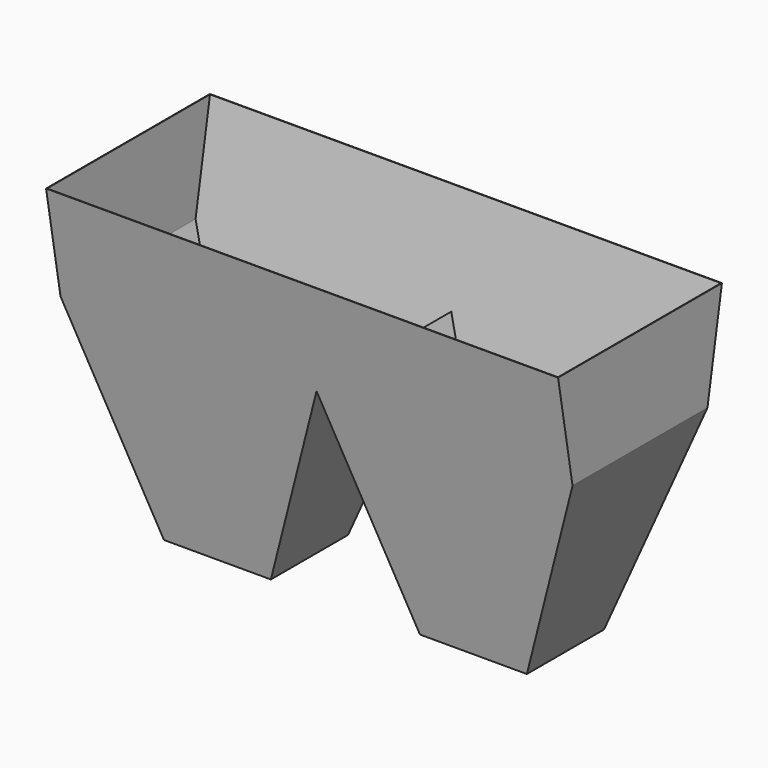
from build123d import *

# Parameters (mm, degrees)
F0_W     = 2500
F0_H     = 1000
F1_DEPTH = 1500
F3_DEPTH = 1000.001
F5_DEPTH = 2500.001
F6_T     = -2.5


with BuildPart() as f1:
    # F0 (on Top) → F1 (new body)
    with BuildSketch(Plane.XY):
        Rectangle(F0_W, F0_H)
    extrude(amount=F1_DEPTH)

    # F2 (on face) → F3 (cut, through all)
    with BuildSketch(Plane.XZ.offset(500)):
        Polygon((-886.0297657338, 0), (-1250, 1000), (-1250, 0), align=None)
        Polygon((0, 1000), (-363.9702342662, 0), (363.9702342662, 0), align=None)
        Polygon((1250, 0), (1250, 1000), (886.0297657338, 0), align=None)
    extrude(amount=-F3_DEPTH, mode=Mode.SUBTRACT)

    # F4 (on face) → F5 (cut, through all)
    with BuildSketch(Plane(origin=(-1250, 0, 0), x_dir=(0, -1, 0), z_dir=(-1, 0, 0))):
        Polygon((-235.5095289373, 0), (-411.8365096458, 1000), (-500, 1000), (-500, 0), align=None)
        Polygon((-411.8365096458, 1000), (-500, 1500), (-500, 1000), align=None)
        Polygon((500, 1000), (411.8365096458, 1000), (235.5095289373, 0), (500, 0), align=None)
        Polygon((500, 1000), (500, 1500), (411.8365096458, 1000), align=None)
    extrude(amount=-F5_DEPTH, mode=Mode.SUBTRACT)

    # F6
    f6_openings = [f1.faces().sort_by_distance(p)[0] for p in [
        (0, 0, 1500),
        (-625, 0, 0),
        (625, 0, 0),
    ]]
    offset(amount=F6_T, openings=f6_openings, kind=Kind.INTERSECTION)


solid = f1.part
